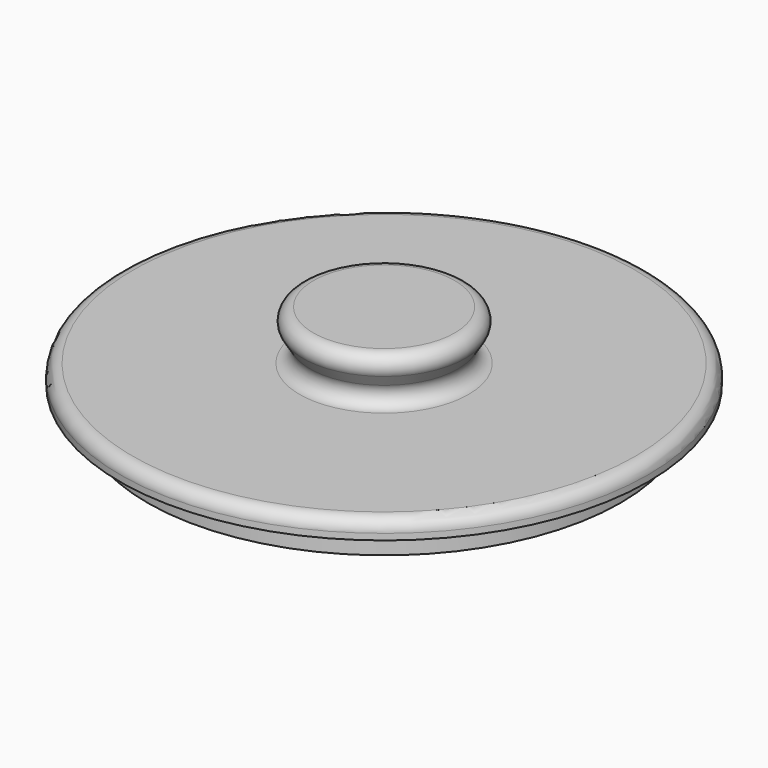
from build123d import *


with BuildPart() as f1:
    # F0 (on Front) → F1 (revolve)
    with BuildSketch(Plane.XZ):
        with BuildLine():
            Line((0, 0), (38.1, 0))
            Line((38.1, 0), (38.1, 4.4))
            Line((38.1, 4.4), (42.5, 4.4))
            Line((42.5, 4.4), (42.5, 5.4))
            ThreePointArc((42.5, 5.4), (41.914214, 6.814214), (40.5, 7.4))
            Line((40.5, 7.4), (13.608495, 7.4))
            ThreePointArc((13.608495, 7.4), (11.85921, 8.430463), (11.912499, 10.459998))
            Line((11.912499, 10.459998), (13.087501, 12.340002))
            ThreePointArc((13.087501, 12.340002), (13.14079, 14.369537), (11.391505, 15.4))
            Line((11.391505, 15.4), (0, 15.4))
            Line((0, 15.4), (0, 0))
        make_face()
    revolve(axis=Axis((0, 0, 11.437746), (0, 0, -1)))


solid = f1.part
